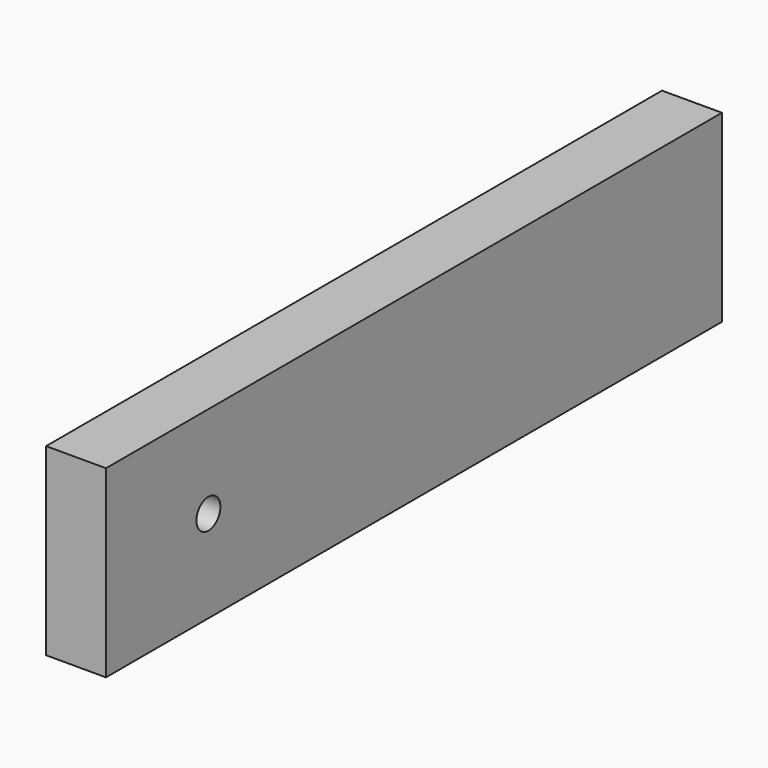
from build123d import *

# Parameters (mm, degrees)
F0_W     = 163.173332
F0_H     = 39.02509
F1_DEPTH = 12.7
F3_D     = 6.35


with BuildPart() as f1:
    # F0 (on Right) → F1 (new body)
    with BuildSketch(Plane.YZ):
        Rectangle(F0_W, F0_H)
    extrude(amount=F1_DEPTH)

    # F3 (through all)
    with Locations(Plane.YZ.offset(12.7)):
        with Locations((-54.45236, 0)):
            Hole(F3_D / 2)


solid = f1.part
